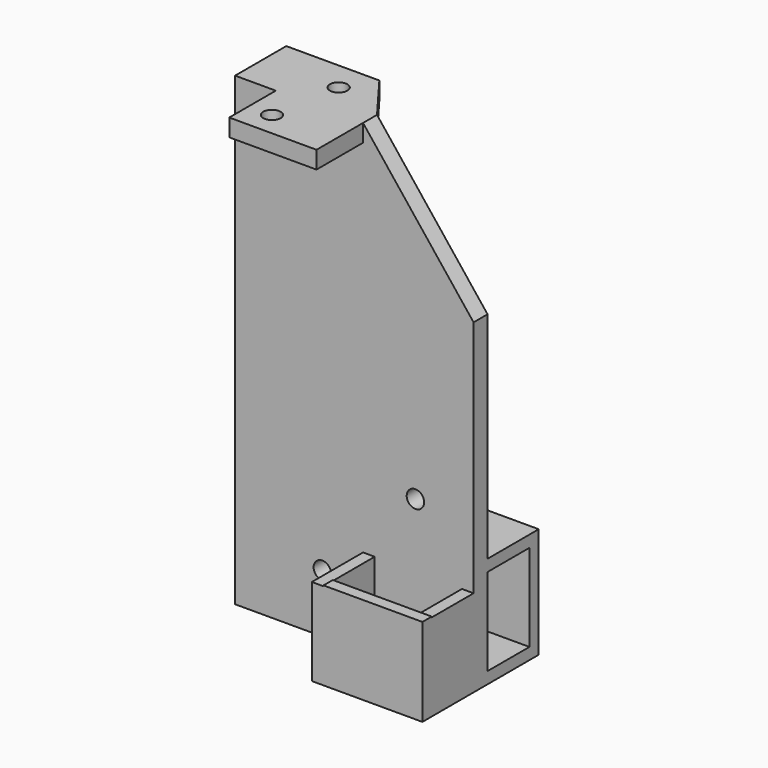
from build123d import *

# Parameters (mm, degrees)
SKETCH_R     = 1.5
PAD_DEPTH    = 1.5
SKETCH001_R  = 1.5
PAD001_DEPTH = 3
SKETCH002_W  = 2
SKETCH002_H  = 15
PAD002_DEPTH = 11
SKETCH003_W  = 15.132667
SKETCH003_H  = 2
PAD003_DEPTH = 17
SKETCH004_W  = 15
SKETCH004_H  = 2
PAD004_DEPTH = 11
SKETCH005_W  = 15
SKETCH005_H  = 2
PAD005_DEPTH = 17


with BuildPart() as part:
    # Sketch → Pad (new body, symmetric)
    with BuildSketch(Plane.XZ):
        Polygon((28, -24), (28, -80), (-13, -80), (-13, 0), (9, 0), align=None)
        with Locations((18, -54)):
            Circle(SKETCH_R, mode=Mode.SUBTRACT)
        with Locations((2, -70)):
            Circle(SKETCH_R, mode=Mode.SUBTRACT)
    extrude(amount=PAD_DEPTH, both=True)

    # Sketch001 (on Face4 of Pad) → Pad001 (join)
    with BuildSketch(Plane(origin=(0, 0, 0), x_dir=(-1, 0, 0), z_dir=(0, 0, 1))):
        Polygon((-9, -1.5), (-3, -9.5), (13, -9.5), (13, -1.5), (6, 1.5), (6, 11.5), (-9, 11.5), (-9, 1.5), align=None)
        with Locations((0, -4.5)):
            Circle(SKETCH001_R, mode=Mode.SUBTRACT)
        with Locations((2, 7.33216)):
            Circle(SKETCH001_R, mode=Mode.SUBTRACT)
    extrude(amount=-PAD001_DEPTH)

    # Sketch002 (on Face5 of Pad001) → Pad002 (join)
    with BuildSketch(Plane.XZ.offset(1.5)):
        with Locations((27, -72.5)):
            Rectangle(SKETCH002_W, SKETCH002_H)
        with Locations((10, -72.5)):
            Rectangle(SKETCH002_W, SKETCH002_H)
    extrude(amount=PAD002_DEPTH)

    # Sketch003 (on Face21 of Pad002) → Pad003 (join)
    with BuildSketch(Plane(origin=(11, 0, 0), x_dir=(0, 0, 1), z_dir=(1, 0, 0))):
        with Locations((-72.433667, 11.5)):
            Rectangle(SKETCH003_W, SKETCH003_H)
    extrude(amount=PAD003_DEPTH)

    # Sketch004 (on Face4 of Pad003) → Pad004 (join)
    with BuildSketch(Plane(origin=(0, 1.5, 0), x_dir=(1, 0, 0), z_dir=(0, 1, 0))):
        with Locations((20.5, 79)):
            Rectangle(SKETCH004_W, SKETCH004_H)
        with Locations((20.5, 62)):
            Rectangle(SKETCH004_W, SKETCH004_H)
    extrude(amount=PAD004_DEPTH)

    # Sketch005 (on Face17 of Pad004) → Pad005 (join)
    with BuildSketch(Plane(origin=(0, 0, -78), x_dir=(-1, 0, 0), z_dir=(0, 0, 1))):
        with Locations((-20.5, -11.5)):
            Rectangle(SKETCH005_W, SKETCH005_H)
    extrude(amount=PAD005_DEPTH)


solid = part.part
